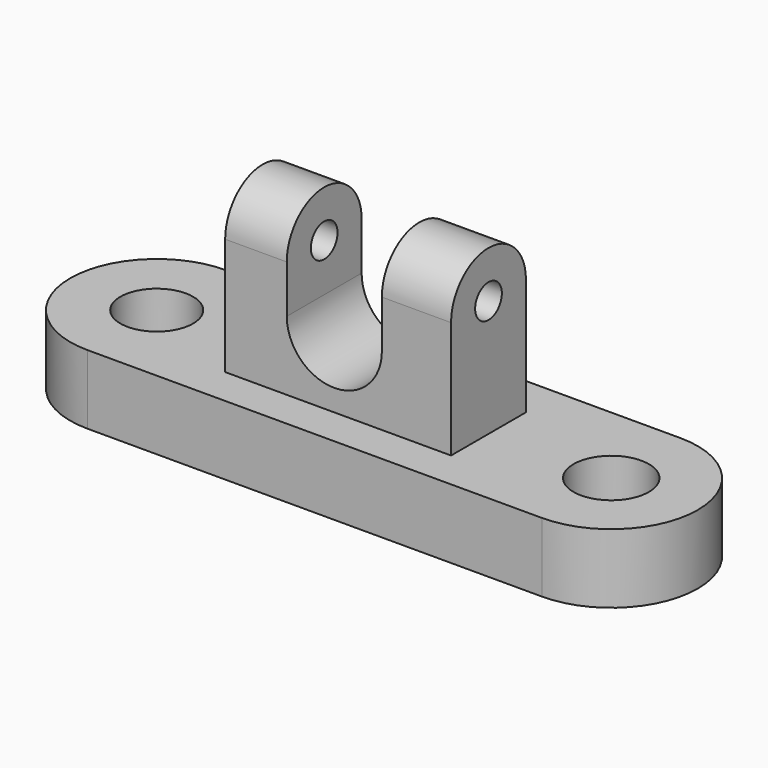
from build123d import *

# Parameters (mm, degrees)
F0_R     = 10.5045071993
F1_DEPTH = 20
F2_W     = 65.2672518045
F2_H     = 27.032835409
F3_DEPTH = 33.8
F5_DEPTH = 65.2672518045
F6_R     = 4.8229033698
F7_DEPTH = 121.2269564549
F9_DEPTH = 38.0423929


with BuildPart() as f1:
    # F0 (on Top) → F1 (new body)
    with BuildSketch(Plane.XY):
        with BuildLine():
            ThreePointArc((-77.745065093, 25), (-102.745065093, 0), (-77.745065093, -25))
            Line((-77.745065093, -25), (53.5661391914, -25))
            ThreePointArc((53.5661391914, -25), (78.5661391914, 0), (53.5661391914, 25))
            Line((53.5661391914, 25), (-77.745065093, 25))
        make_face()
        with Locations((-77.745065093, 0)):
            Circle(F0_R, mode=Mode.SUBTRACT)
        with BuildLine():
            ThreePointArc((64.4582820553, 0), (53.5661391914, -10.8921428639), (42.6739963275, 0))
            ThreePointArc((42.6739963275, 0), (53.5661391914, 10.8921428639), (64.4582820553, 0))
        make_face(mode=Mode.SUBTRACT)
    extrude(amount=F1_DEPTH)

    # F2 (on face) → F3 (join)
    with BuildSketch(Plane.XY.offset(20)):
        with Locations((-14.1527345404, -0.4750248045)):
            Rectangle(F2_W, F2_H)
    extrude(amount=F3_DEPTH)

    # F4 (on face) → F5 (join, through all)
    with BuildSketch(Plane.YZ.offset(18.4808913618)):
        with BuildLine():
            Line((-13.991442509, 53.8), (13.0413929, 53.8))
            ThreePointArc((13.0413929, 53.8), (-0.4750248045, 67.3164177045), (-13.991442509, 53.8))
        make_face()
    extrude(amount=-F5_DEPTH)

    # F6 (on face) → F7 (cut, through all)
    with BuildSketch(Plane.YZ.offset(18.4808913618)):
        with Locations((-0.4750248045, 53.8)):
            Circle(F6_R)
    extrude(amount=-F7_DEPTH, mode=Mode.SUBTRACT)

    # F8 (on face) → F9 (cut, through all)
    with BuildSketch(Plane(origin=(0, 13.0413929, 0), x_dir=(-1, 0, 0), z_dir=(0, 1, 0))):
        with BuildLine():
            Line((28.9868507534, 71.8440338969), (1.5166216763, 71.8440338969))
            Line((1.5166216763, 71.8440338969), (1.5166216763, 39.9625226855))
            ThreePointArc((1.5166216763, 39.9625226855), (15.2517362149, 26.227408147), (28.9868507534, 39.9625226855))
            Line((28.9868507534, 39.9625226855), (28.9868507534, 71.8440338969))
        make_face()
    extrude(amount=-F9_DEPTH, mode=Mode.SUBTRACT)


solid = f1.part
